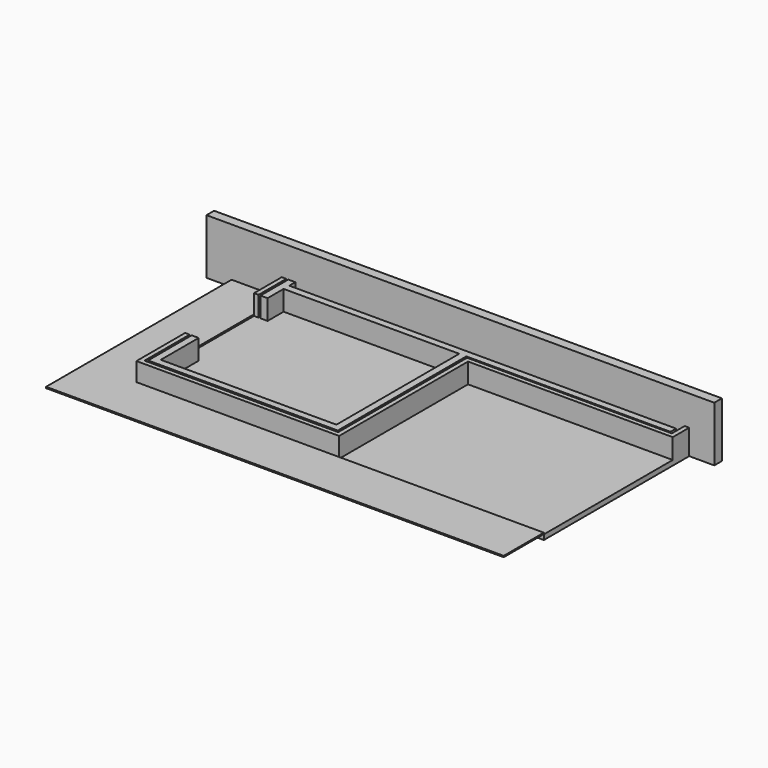
from build123d import *

# Parameters (mm, degrees)
F0_W          = 8120
F0_H          = 3621
F1_DEPTH      = 100
F2_W          = 90
F2_H          = 691
F3_DEPTH      = 400
F6_DEPTH      = 25
F8_DEPTH      = 1000
F8_DEPTH_BACK = 100


with BuildPart() as f1:
    # F0 (on Top) → F1 (new body)
    with BuildSketch(Plane.XY):
        with Locations((4060, 1810.5)):
            Rectangle(F0_W, F0_H)
    extrude(amount=-F1_DEPTH)

    # F2 (on face) → F3 (join)
    with BuildSketch(Plane.XY):
        with Locations((45, 3275.5)):
            Rectangle(F2_W, F2_H)
        Polygon((270, 3621), (130, 3621), (130, 2930), (270, 2930), (270, 3330), (3770, 3330), (3770, 270), (270, 270), (270, 1214), (130, 1214), (130, 130), (3910, 130), (3910, 3330), (7980, 3330), (7980, 3470), (270, 3470), align=None)
        Polygon((90, 1214), (0, 1214), (0, 0), (4040, 0), (4040, 3211), (8120, 3211), (8120, 3621), (8030, 3621), (8030, 3301), (3950, 3301), (3950, 90), (90, 90), align=None)
    extrude(amount=F3_DEPTH)

    # F5 (on offset) → F6 (join)
    with BuildSketch(Plane.XY.offset(30)):
        Polygon((0, 0), (0, 3621), (-1000, 3621), (-1000, -1000), (8120, -1000), (8120, 0), align=None)
    extrude(amount=-F6_DEPTH)

    # F7 (on face) → F8 (join, two sides)
    with BuildSketch(Plane.XY) as f8_sk:
        Polygon((-1500, 3811), (-1500, 3621), (90, 3621), (130, 3621), (270, 3621), (8030, 3621), (8620, 3621), (8620, 3811), align=None)
    extrude(amount=F8_DEPTH)
    extrude(f8_sk.sketch, amount=-F8_DEPTH_BACK)


solid = f1.part
